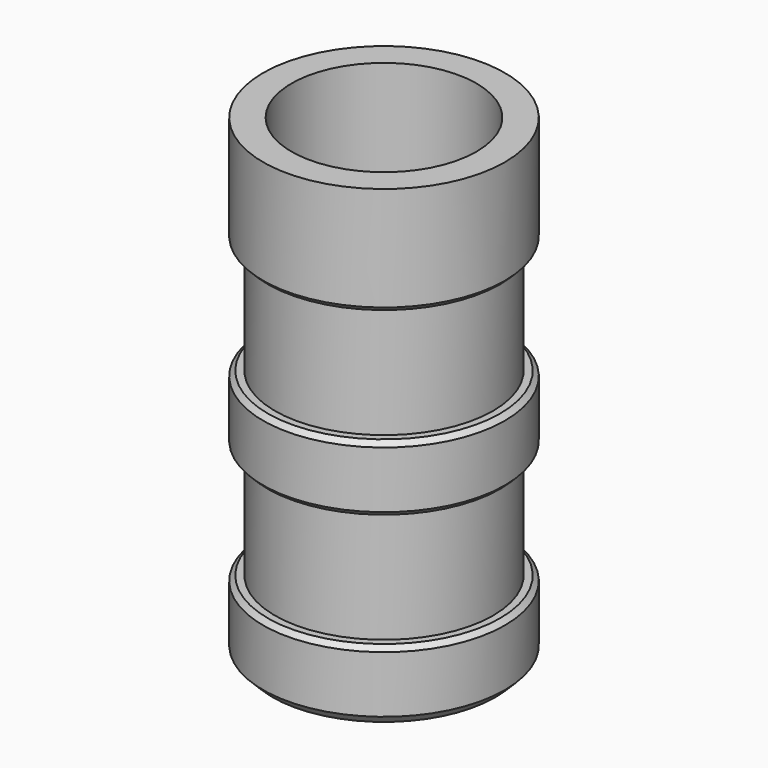
from build123d import *

# Parameters (mm, degrees)
F2_SIZE = 1


with BuildPart() as f1:
    # F0 (on Front) → F1 (revolve)
    with BuildSketch(Plane.XZ):
        Polygon((19.5, 100), (19.5, 0), (23.5, 0), (25.5, 2), (25.5, 15), (23, 15), (23, 39), (25.5, 39), (25.5, 53), (23, 53), (23, 77), (25.5, 77), (25.5, 100), align=None)
    revolve(axis=Axis((0, 0, 117.261842), (0, 0, 1)))

    # F2
    f2_edges = [f1.edges().sort_by_distance(p)[0] for p in [
        (-25.5, 0, 77),
        (-25.5, 0, 53),
        (-25.5, 0, 39),
        (-25.5, 0, 15),
    ]]
    chamfer(f2_edges, length=F2_SIZE)


solid = f1.part
